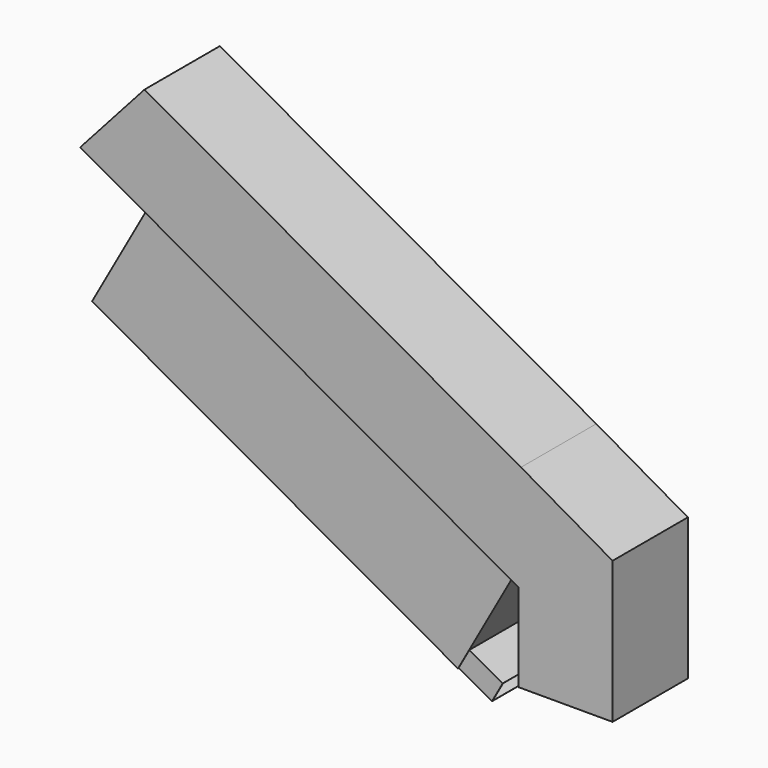
from build123d import *

# Parameters (mm, degrees)
F1_DEPTH  = 228.6
F2_T      = -3.175
F3_W      = 2035.8837321401
F3_H      = 415.0076210499
F4_DEPTH  = 551.18
F5_W      = 1992.8858019412
F5_H      = 373.9200532436
F6_DEPTH  = 759.46
F7_W      = 411.0114574432
F7_H      = 107.2978954762
F8_DEPTH  = 185.42
F9_W      = 404.4185429811
F9_H      = 105.2236258984
F10_DEPTH = 266.954


with BuildPart() as f1:
    # F0 (on Front) → F1 (new body, symmetric)
    with BuildSketch(Plane.XZ):
        Polygon((1964.5838737488, -102.81098634), (135.7838737488, 917.8921075174), (-176.9533361432, 568.8492368309), (1952.2630823642, -619.5244431026), (1952.2630823642, -1047.0928401104), (2409.4630823642, -1047.0928401104), (2409.4630823642, -357.9530729597), align=None)
    extrude(amount=F1_DEPTH, both=True)

    # F2
    f2_openings = [f1.faces().sort_by_distance(p)[0] for p in [
        (2180.863082, 0, -1047.09284),
        (-20.584731, 0, 743.370672),
    ]]
    offset(amount=F2_T, openings=f2_openings, kind=Kind.INTERSECTION)

    # F3 (on face) → F4 (join)
    with BuildSketch(Plane(origin=(200.0511033435, 0, 358.4327900997), x_dir=(0.8732022714, 0, -0.4873579724), z_dir=(-0.4873579724, 0, -0.8732022714))):
        with Locations((940.4449127614, -0.2903789282)):
            Rectangle(F3_W, F3_H)
    extrude(amount=F4_DEPTH)

    # F5 (on face) → F6 (cut)
    with BuildSketch(Plane(origin=(-68.5708638914, 0, -122.8588378338), x_dir=(0.8732022714, 0, -0.4873579724), z_dir=(-0.4873579724, 0, -0.8732022714))):
        with Locations((936.0848795623, -0.4200935364)):
            Rectangle(F5_W, F5_H)
    extrude(amount=-F6_DEPTH, mode=Mode.SUBTRACT)

    # F7 (on face) → F8 (join)
    with BuildSketch(Plane(origin=(1710.0677834956, 0, -954.4354097331), x_dir=(0, 1, 0), z_dir=(0.8732022714, 0, -0.4873579724))):
        with Locations((0.5745142698, -84.4273874536)):
            Rectangle(F7_W, F7_H)
    extrude(amount=F8_DEPTH)

    # F9 (on face) → F10 (cut)
    with BuildSketch(Plane(origin=(1871.9769486529, 0, -1044.801324978), x_dir=(0, 1, 0), z_dir=(0.8732022714, 0, -0.4873579724))):
        with Locations((-0.0041797757, -84.2405110598)):
            Rectangle(F9_W, F9_H)
    extrude(amount=-F10_DEPTH, mode=Mode.SUBTRACT)


solid = f1.part
